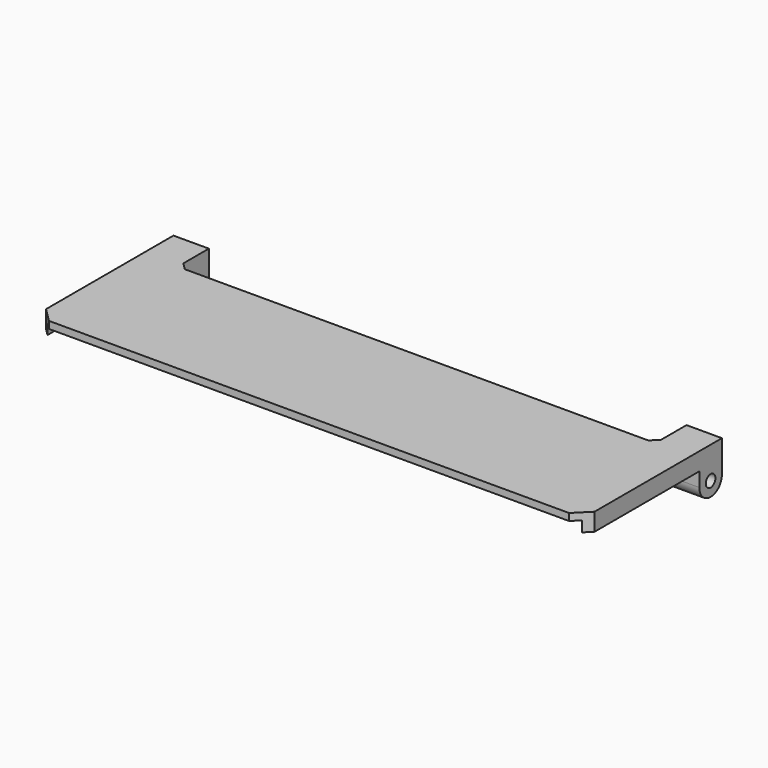
from build123d import *

# Parameters (mm, degrees)
BOX032_W           = 67.5
BOX032_H           = 20
BOX032_DEPTH       = 4.5
CHAMFER011013_SIZE = 1
BOX029_W           = 75.5
BOX029_H           = 24.5
BOX029_DEPTH       = 1.5
BOX028_W           = 77.5
BOX028_H           = 24.5
BOX028_DEPTH       = 2.5
CHAMFER011012_SIZE = 2
CYLINDER044_R      = 0.85
CYLINDER044_DEPTH  = 10
BOX031_W           = 5
BOX031_H           = 4
BOX031_DEPTH       = 6.5
FILLET002_R        = 1.99
CYLINDER045_R      = 0.85
CYLINDER045_DEPTH  = 10
BOX030_W           = 5
BOX030_H           = 4
BOX030_DEPTH       = 6.5
FILLET003_R        = 1.99


with BuildPart() as chamfer011013:
    # Box032 → Box032 (new body)
    with BuildSketch(Plane(origin=(-33.75, 13.5, 29), x_dir=(1, 0, 0), z_dir=(0, 0, 1))):
        with Locations((33.75, 10)):
            Rectangle(BOX032_W, BOX032_H)
    extrude(amount=BOX032_DEPTH)

    # Chamfer011013
    chamfer011013_edges = [chamfer011013.edges().sort_by_distance(p)[0] for p in [
        (-33.75, 13.5, 31.25),
        (33.75, 13.5, 31.25),
    ]]
    chamfer(chamfer011013_edges, length=CHAMFER011013_SIZE)


with BuildPart() as cube028:
    # Box029 → Box029 (new body)
    with BuildSketch(Plane(origin=(-37.75, -5.5, 29), x_dir=(1, 0, 0), z_dir=(0, 0, 1))):
        with Locations((37.75, 12.25)):
            Rectangle(BOX029_W, BOX029_H)
    extrude(amount=BOX029_DEPTH)


with BuildPart() as cut025002008:
    # Box028 → Box028 (new body)
    with BuildSketch(Plane(origin=(-38.75, -5.5, 29), x_dir=(1, 0, 0), z_dir=(0, 0, 1))):
        with Locations((38.75, 12.25)):
            Rectangle(BOX028_W, BOX028_H)
    extrude(amount=BOX028_DEPTH)

    # Chamfer011012
    chamfer011012_edges = [cut025002008.edges().sort_by_distance(p)[0] for p in [
        (-38.75, -5.5, 30.25),
        (38.75, -5.5, 30.25),
    ]]
    chamfer(chamfer011012_edges, length=CHAMFER011012_SIZE)

    # Cut025002008: cut Cube028
    add(cube028.part, mode=Mode.SUBTRACT)


with BuildPart() as cylinder044:
    # Cylinder044 → Cylinder044 (new body)
    with BuildSketch(Plane(origin=(41.5, 17, 27), x_dir=(0, 0, 1), z_dir=(-1, 0, 0))):
        Circle(CYLINDER044_R)
    extrude(amount=CYLINDER044_DEPTH)


with BuildPart() as cut025002007:
    # Box031 → Box031 (new body)
    with BuildSketch(Plane(origin=(33.75, 15, 25), x_dir=(1, 0, 0), z_dir=(0, 0, 1))):
        with Locations((2.5, 2)):
            Rectangle(BOX031_W, BOX031_H)
    extrude(amount=BOX031_DEPTH)

    # Fillet002
    fillet002_edges = [cut025002007.edges().sort_by_distance(p)[0] for p in [
        (36.25, 15, 25),
        (36.25, 19, 25),
    ]]
    fillet(fillet002_edges, radius=FILLET002_R)

    # Cut025002007: cut Cylinder044
    add(cylinder044.part, mode=Mode.SUBTRACT)


with BuildPart() as cylinder045:
    # Cylinder045 → Cylinder045 (new body)
    with BuildSketch(Plane(origin=(-32.5, 17, 27), x_dir=(0, 0, 1), z_dir=(-1, 0, 0))):
        Circle(CYLINDER045_R)
    extrude(amount=CYLINDER045_DEPTH)


with BuildPart() as cut025002009:
    # Box030 → Box030 (new body)
    with BuildSketch(Plane(origin=(-38.75, 15, 25), x_dir=(1, 0, 0), z_dir=(0, 0, 1))):
        with Locations((2.5, 2)):
            Rectangle(BOX030_W, BOX030_H)
    extrude(amount=BOX030_DEPTH)

    # Fillet003
    fillet003_edges = [cut025002009.edges().sort_by_distance(p)[0] for p in [
        (-36.25, 15, 25),
        (-36.25, 19, 25),
    ]]
    fillet(fillet003_edges, radius=FILLET003_R)

    # Cut025002006: cut Cylinder045
    add(cylinder045.part, mode=Mode.SUBTRACT)

    # Fusion011007: union Cut025002007
    add(cut025002007.part)

    # Fusion011008: union Cut025002008
    add(cut025002008.part)

    # Cut025002009: cut Chamfer011013
    add(chamfer011013.part, mode=Mode.SUBTRACT)


solid = cut025002009.part
